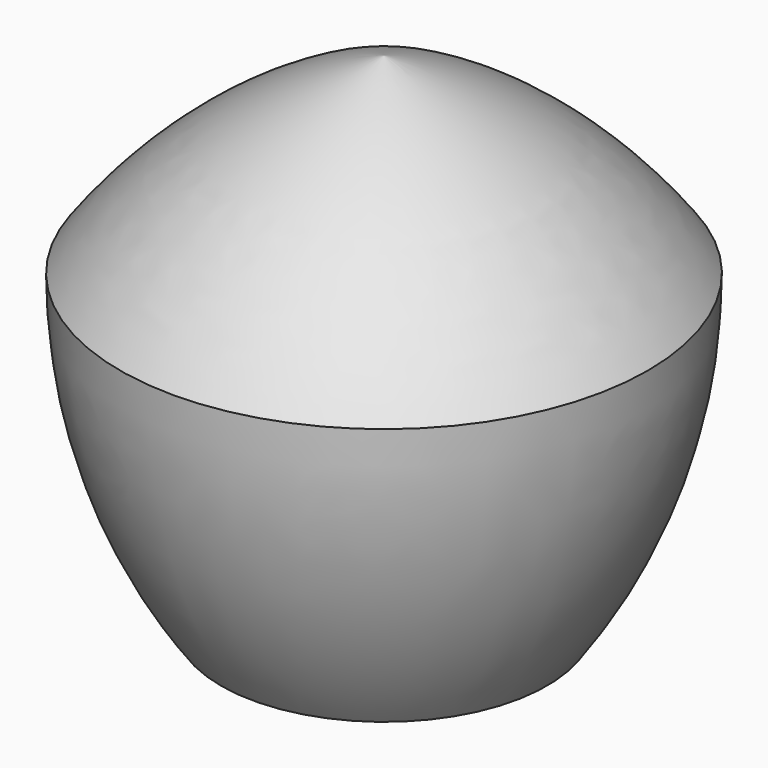
from build123d import *


with BuildPart() as f1:
    # F0 (on Front) → F1 (revolve)
    with BuildSketch(Plane.XZ):
        with BuildLine():
            Line((0, -41.108259), (0, 45.568857))
            ThreePointArc((0, 45.568857), (-24.162829, 33.257281), (-43.338558, 14.081551))
            ThreePointArc((-43.338558, 14.081551), (-39.096278, -12.703151), (-26.784702, -36.865979))
            ThreePointArc((-26.784702, -36.865979), (-13.559288, -40.04112), (0, -41.108259))
        make_face()
    revolve(axis=Axis((0, 0, 2.230299), (0, 0, -1)))


solid = f1.part
